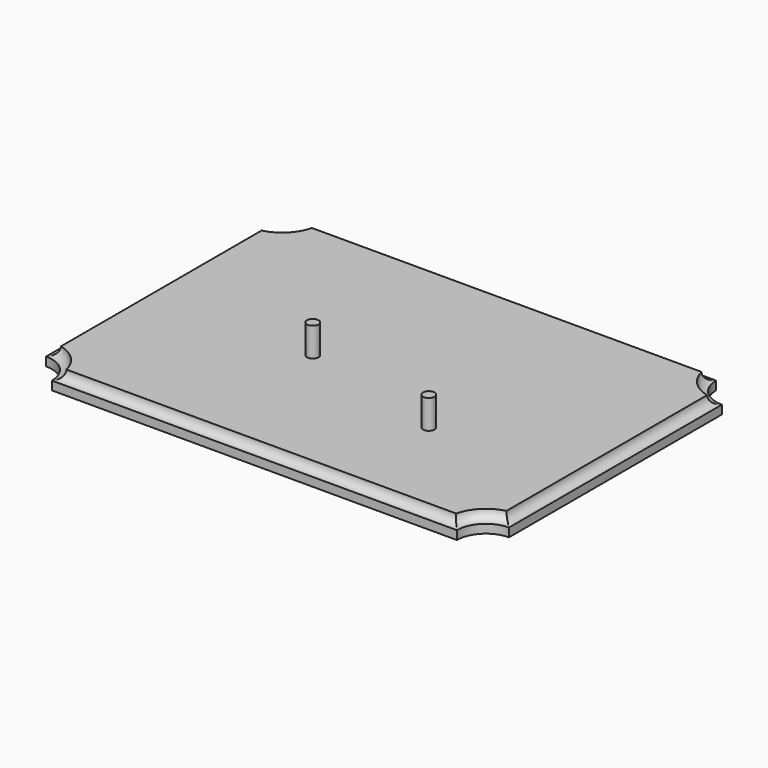
from build123d import *

# Parameters (mm, degrees)
F1_DEPTH = 19.05
F4_R     = 6.35
F5_DEPTH = 31.75


with BuildPart() as f1:
    # F0 (on Top) → F1 (new body)
    with BuildSketch(Plane.XY):
        with BuildLine():
            ThreePointArc((254, 146.05), (231.5493596973, 155.3493596973), (222.25, 177.8))
            Line((222.25, 177.8), (-222.25, 177.8))
            ThreePointArc((-222.25, 177.8), (-231.5493596973, 155.3493596973), (-254, 146.05))
            Line((-254, 146.05), (-254, -146.05))
            ThreePointArc((-254, -146.05), (-231.5493596973, -155.3493596973), (-222.25, -177.8))
            Line((-222.25, -177.8), (222.25, -177.8))
            ThreePointArc((222.25, -177.8), (231.5493596973, -155.3493596973), (254, -146.05))
            Line((254, -146.05), (254, 146.05))
        make_face()
    extrude(amount=F1_DEPTH)

    # F3: sweep along a path in F0
    with BuildLine(Plane.XY) as f3_path:
        Line((222.25, 177.8), (-222.25, 177.8))
        ThreePointArc((-222.25, 177.8), (-231.5493596973, 155.3493596973), (-254, 146.05))
        Line((-254, 146.05), (-254, -146.05))
        ThreePointArc((-254, -146.05), (-231.5493596973, -155.3493596973), (-222.25, -177.8))
        Line((-222.25, -177.8), (222.25, -177.8))
        ThreePointArc((222.25, -177.8), (231.5493596973, -155.3493596973), (254, -146.05))
        Line((254, -146.05), (254, 146.05))
        ThreePointArc((254, 146.05), (231.5493596973, 155.3493596973), (222.25, 177.8))
    # F2 (on Right) → F3 (sweep, cut)
    with BuildSketch(Plane.YZ):
        with BuildLine():
            Line((-180.975, 0), (-177.8, 0))
            Line((-177.8, 0), (-177.8, 9.525))
            ThreePointArc((-177.8, 9.525), (-171.0648079092, 12.3148079092), (-168.275, 19.05))
            Line((-168.275, 19.05), (-180.975, 19.05))
            Line((-180.975, 19.05), (-180.975, 0))
        make_face()
    sweep(path=f3_path.line, transition=Transition.RIGHT, mode=Mode.SUBTRACT)


with BuildPart() as f5:
    # F4 (on face) → F5 (new body)
    with BuildSketch(Plane.XY.offset(19.05)):
        with Locations((-65.7232105732, -15.5569948256)):
            Circle(F4_R)
    extrude(amount=F5_DEPTH)


with BuildPart() as f5b:
    # F4 (on face) → F5, piece 2 (new body)
    with BuildSketch(Plane.XY.offset(19.05)):
        with Locations((95.7525223494, -58.191396296)):
            Circle(F4_R)
    extrude(amount=F5_DEPTH)


solid = Compound([f1.part, f5.part, f5b.part])
